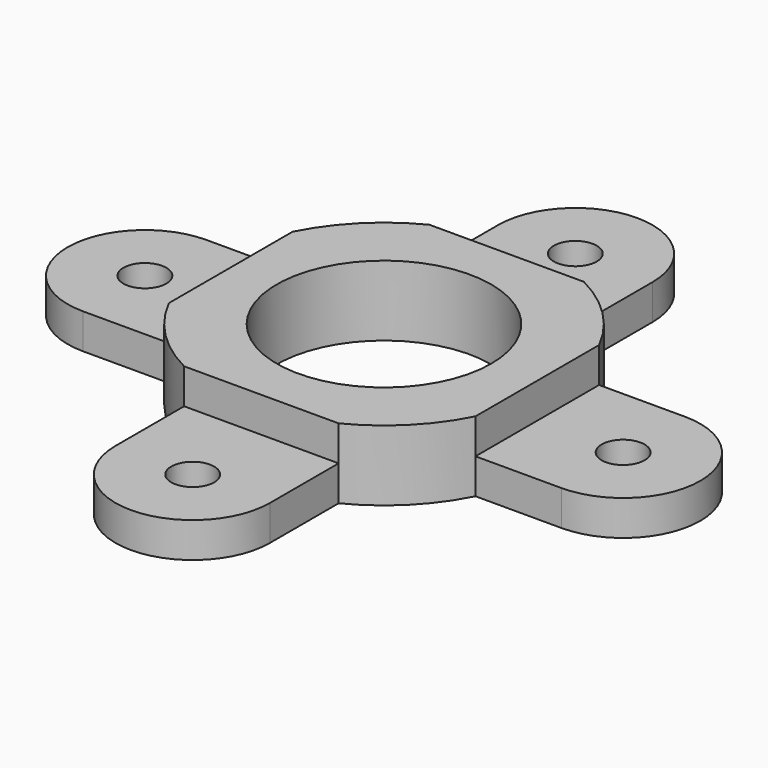
from build123d import *

# Parameters (mm, degrees)
F0_R     = 12.5
F1_DEPTH = 8.2
F0_R_2   = 2.5
F2_DEPTH = 4.1


with BuildPart() as f1:
    # F0 (on Top) → F1 (new body)
    with BuildSketch(Plane.XY):
        with BuildLine():
            Line((-9, -17.860571), (9, -17.860571))
            ThreePointArc((9, -17.860571), (14.142136, -14.142136), (17.860571, -9))
            Line((17.860571, -9), (17.860571, 9))
            ThreePointArc((17.860571, 9), (14.142136, 14.142136), (9, 17.860571))
            Line((9, 17.860571), (-9, 17.860571))
            ThreePointArc((-9, 17.860571), (-14.142136, 14.142136), (-17.860571, 9))
            Line((-17.860571, 9), (-17.860571, -9))
            ThreePointArc((-17.860571, -9), (-14.142136, -14.142136), (-9, -17.860571))
        make_face()
        Circle(F0_R, mode=Mode.SUBTRACT)
    extrude(amount=F1_DEPTH)

    # F0 (on Top) → F2 (join)
    with BuildSketch(Plane.XY):
        with BuildLine():
            Line((-9, -17.860571), (9, -17.860571))
            ThreePointArc((9, -17.860571), (14.142136, -14.142136), (17.860571, -9))
            Line((17.860571, -9), (17.860571, 9))
            ThreePointArc((17.860571, 9), (14.142136, 14.142136), (9, 17.860571))
            Line((9, 17.860571), (-9, 17.860571))
            ThreePointArc((-9, 17.860571), (-14.142136, 14.142136), (-17.860571, 9))
            Line((-17.860571, 9), (-17.860571, -9))
            ThreePointArc((-17.860571, -9), (-14.142136, -14.142136), (-9, -17.860571))
        make_face()
        Circle(F0_R, mode=Mode.SUBTRACT)
        with BuildLine():
            Line((9, -27.860571), (9, -17.860571))
            Line((9, -17.860571), (-9, -17.860571))
            Line((-9, -17.860571), (-9, -27.860571))
            ThreePointArc((-9, -27.860571), (0, -36.860571), (9, -27.860571))
        make_face()
        with Locations((0, -27.860571)):
            Circle(F0_R_2, mode=Mode.SUBTRACT)
        with BuildLine():
            Line((17.860571, 9), (17.860571, -9))
            Line((17.860571, -9), (27.860571, -9))
            ThreePointArc((27.860571, -9), (36.860571, 0), (27.860571, 9))
            Line((27.860571, 9), (17.860571, 9))
        make_face()
        with Locations((27.860571, 0)):
            Circle(F0_R_2, mode=Mode.SUBTRACT)
        with BuildLine():
            Line((-27.860571, -9), (-17.860571, -9))
            Line((-17.860571, -9), (-17.860571, 9))
            Line((-17.860571, 9), (-27.860571, 9))
            ThreePointArc((-27.860571, 9), (-36.860571, 0), (-27.860571, -9))
        make_face()
        with Locations((-27.860571, 0)):
            Circle(F0_R_2, mode=Mode.SUBTRACT)
        with BuildLine():
            Line((-9, 17.860571), (9, 17.860571))
            Line((9, 17.860571), (9, 27.860571))
            ThreePointArc((9, 27.860571), (0, 36.860571), (-9, 27.860571))
            Line((-9, 27.860571), (-9, 17.860571))
        make_face()
        with Locations((0, 27.860571)):
            Circle(F0_R_2, mode=Mode.SUBTRACT)
    extrude(amount=F2_DEPTH)


solid = f1.part
